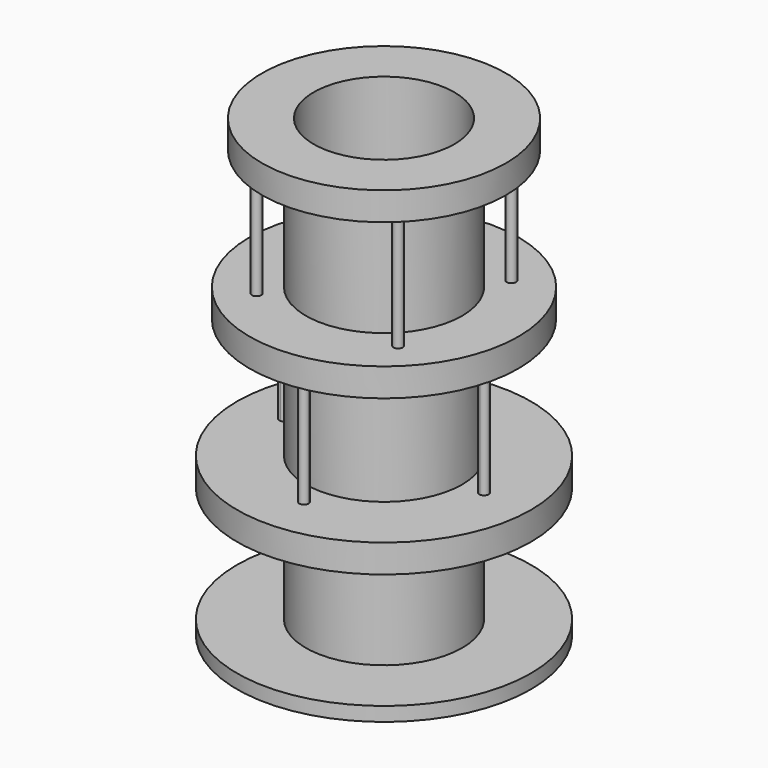
from build123d import *

# Parameters (mm, degrees)
F0_R      = 94
F1_DEPTH  = 9
F2_R      = 50
F3_DEPTH  = 74
F4_R      = 94
F5_DEPTH  = 18
F7_DEPTH  = 77
F8_R      = 50
F9_DEPTH  = 77
F10_R     = 86
F11_DEPTH = 18
F12_R     = 3
F13_DEPTH = 77
F14_R     = 50
F15_DEPTH = 77
F16_R     = 78
F17_DEPTH = 18
F18_R     = 45
F19_DEPTH = 200


with BuildPart() as f1:
    # F0 (on Top) → F1 (new body)
    with BuildSketch(Plane.XY):
        Circle(F0_R)
    extrude(amount=F1_DEPTH)

    # F2 (on face) → F3 (join)
    with BuildSketch(Plane.XY.offset(9)):
        Circle(F2_R)
    extrude(amount=F3_DEPTH)

    # F4 (on face) → F5 (join)
    with BuildSketch(Plane.XY.offset(83)):
        Circle(F4_R)
    extrude(amount=F5_DEPTH)

    # F6 (on face) → F7 (join)
    with BuildSketch(Plane.XY.offset(101)):
        with BuildLine():
            ThreePointArc((-2.9991759122, 63.9296875), (0, 61), (2.9991759122, 63.9296875))
            ThreePointArc((2.9991759122, 63.9296875), (0, 64), (-2.9991759122, 63.9296875))
        make_face()
        with BuildLine():
            ThreePointArc((-2.9991759122, 63.9296875), (0, 64), (2.9991759122, 63.9296875))
            ThreePointArc((2.9991759122, 63.9296875), (2.999793971, 63.9648413354), (3, 64))
            ThreePointArc((3, 64), (-0.0351586646, 66.999793971), (-2.9991759122, 63.9296875))
        make_face()
        with BuildLine():
            ThreePointArc((-63.9296875, -2.9991759122), (-64, 0), (-63.9296875, 2.9991759122))
            ThreePointArc((-63.9296875, 2.9991759122), (-67, 0), (-63.9296875, -2.9991759122))
        make_face()
        with BuildLine():
            ThreePointArc((-61, 0), (-61.8539644108, 2.0963137289), (-63.9296875, 2.9991759122))
            ThreePointArc((-63.9296875, 2.9991759122), (-64, 0), (-63.9296875, -2.9991759122))
            ThreePointArc((-63.9296875, -2.9991759122), (-61.8539644108, -2.0963137289), (-61, 0))
        make_face()
        with BuildLine():
            ThreePointArc((-2.9991759122, -63.9296875), (0, -64), (2.9991759122, -63.9296875))
            ThreePointArc((2.9991759122, -63.9296875), (0, -61), (-2.9991759122, -63.9296875))
        make_face()
        with BuildLine():
            ThreePointArc((3, -64), (2.999793971, -63.9648413354), (2.9991759122, -63.9296875))
            ThreePointArc((2.9991759122, -63.9296875), (0, -64), (-2.9991759122, -63.9296875))
            ThreePointArc((-2.9991759122, -63.9296875), (-0.0351586646, -66.999793971), (3, -64))
        make_face()
        with BuildLine():
            ThreePointArc((63.9296875, -2.9991759122), (63.9824194603, -1.5), (64, 0))
            ThreePointArc((64, 0), (63.9824194603, 1.5), (63.9296875, 2.9991759122))
            ThreePointArc((63.9296875, 2.9991759122), (61, 0), (63.9296875, -2.9991759122))
        make_face()
        with BuildLine():
            ThreePointArc((63.9296875, 2.9991759122), (63.9824194603, 1.5), (64, 0))
            ThreePointArc((64, 0), (63.9824194603, -1.5), (63.9296875, -2.9991759122))
            ThreePointArc((63.9296875, -2.9991759122), (66.0963137289, -2.1460355892), (67, 0))
            ThreePointArc((67, 0), (66.0963137289, 2.1460355892), (63.9296875, 2.9991759122))
        make_face()
    extrude(amount=F7_DEPTH)

    # F8 (on face) → F9 (join)
    with BuildSketch(Plane.XY.offset(101)):
        Circle(F8_R)
        Circle(F8_R)
    extrude(amount=F9_DEPTH)

    # F10 (on face) → F11 (join)
    with BuildSketch(Plane.XY.offset(178)):
        Circle(F10_R)
    extrude(amount=F11_DEPTH)

    # F12 (on face) → F13 (join)
    with BuildSketch(Plane.XY.offset(196)):
        with Locations((-45.2548339959, 45.2548339959)):
            Circle(F12_R)
        with Locations((45.2548339959, 45.2548339959)):
            Circle(F12_R)
        with Locations((45.2548339959, -45.2548339959)):
            Circle(F12_R)
        with Locations((-45.2548339959, -45.2548339959)):
            Circle(F12_R)
    extrude(amount=F13_DEPTH)

    # F14 (on face) → F15 (join)
    with BuildSketch(Plane.XY.offset(196)):
        Circle(F14_R)
    extrude(amount=F15_DEPTH)

    # F16 (on face) → F17 (join)
    with BuildSketch(Plane.XY.offset(273)):
        Circle(F16_R)
    extrude(amount=F17_DEPTH)

    # F18 (on face) → F19 (cut)
    with BuildSketch(Plane.XY.offset(291)):
        Circle(F18_R)
    extrude(amount=-F19_DEPTH, mode=Mode.SUBTRACT)


solid = f1.part
